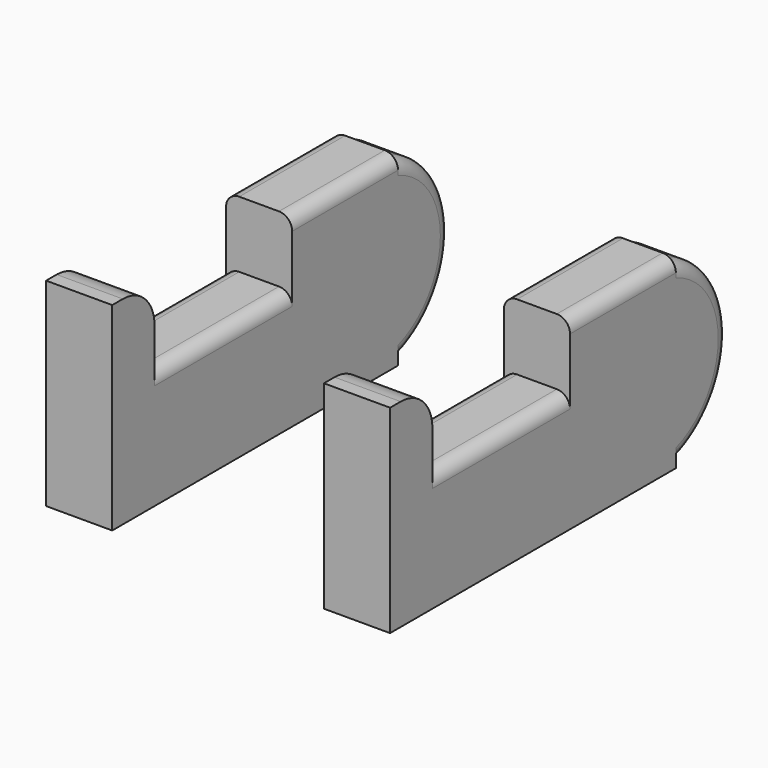
from build123d import *

# Parameters (mm, degrees)
BOX004_W          = 5
BOX004_H          = 13
BOX004_DEPTH      = 9
FILLET007_R       = 1
CYLINDER007_R     = 7
CYLINDER007_DEPTH = 5
FILLET008_R       = 1
BOX002_W          = 5
BOX002_H          = 10
BOX002_DEPTH      = 14
FILLET009_R       = 1
BOX005_W          = 5
BOX005_H          = 4
BOX005_DEPTH      = 15
FILLET003_R       = 3


with BuildPart() as fillet007:
    # Box004 → Box004 (new body)
    with BuildSketch(Plane(origin=(8, -1, 0), x_dir=(1, 0, 0), z_dir=(0, 0, 1))):
        with Locations((2.5, 6.5)):
            Rectangle(BOX004_W, BOX004_H)
    extrude(amount=BOX004_DEPTH)

    # Fillet007
    fillet007_edges = [fillet007.edges().sort_by_distance(p)[0] for p in [
        (8, 5.5, 9),
        (13, 5.5, 9),
    ]]
    fillet(fillet007_edges, radius=FILLET007_R)


with BuildPart() as fillet008:
    # Cylinder007 → Cylinder007 (new body)
    with BuildSketch(Plane(origin=(8, 20, 7), x_dir=(0, 0, -1), z_dir=(1, 0, 0))):
        Circle(CYLINDER007_R)
    extrude(amount=CYLINDER007_DEPTH)

    # Fillet008
    fillet008_edges = [fillet008.edges().sort_by_distance(p)[0] for p in [
        (13, 20, 14),
        (8, 20, 14),
    ]]
    fillet(fillet008_edges, radius=FILLET008_R)


with BuildPart() as fillet009:
    # Box002 → Box002 (new body)
    with BuildSketch(Plane(origin=(8, 12, 0), x_dir=(1, 0, 0), z_dir=(0, 0, 1))):
        with Locations((2.5, 5)):
            Rectangle(BOX002_W, BOX002_H)
    extrude(amount=BOX002_DEPTH)

    # Fillet009
    fillet009_edges = [fillet009.edges().sort_by_distance(p)[0] for p in [
        (8, 17, 14),
        (13, 17, 14),
    ]]
    fillet(fillet009_edges, radius=FILLET009_R)


with BuildPart() as fusion002:
    # Box005 → Box005 (new body)
    with BuildSketch(Plane(origin=(8, -5, 0), x_dir=(1, 0, 0), z_dir=(0, 0, 1))):
        with Locations((2.5, 2)):
            Rectangle(BOX005_W, BOX005_H)
    extrude(amount=BOX005_DEPTH)

    # Fillet003
    fillet003_edges = [fusion002.edges().sort_by_distance(p)[0] for p in [
        (10.5, -1, 15),
    ]]
    fillet(fillet003_edges, radius=FILLET003_R)

    # Fusion002: union Fillet007, Fillet008, Fillet009
    add(fillet007.part)
    add(fillet008.part)
    add(fillet009.part)


with BuildPart() as back_legs:
    # Part__Mirroring001: instance of Fusion002
    add(fusion002.part.mirror(Plane(origin=(0, 0, 0), x_dir=(0, -1, 0), z_dir=(1, 0, 0))))

    # Fusion004: union Fusion002
    add(fusion002.part)


solid = back_legs.part
